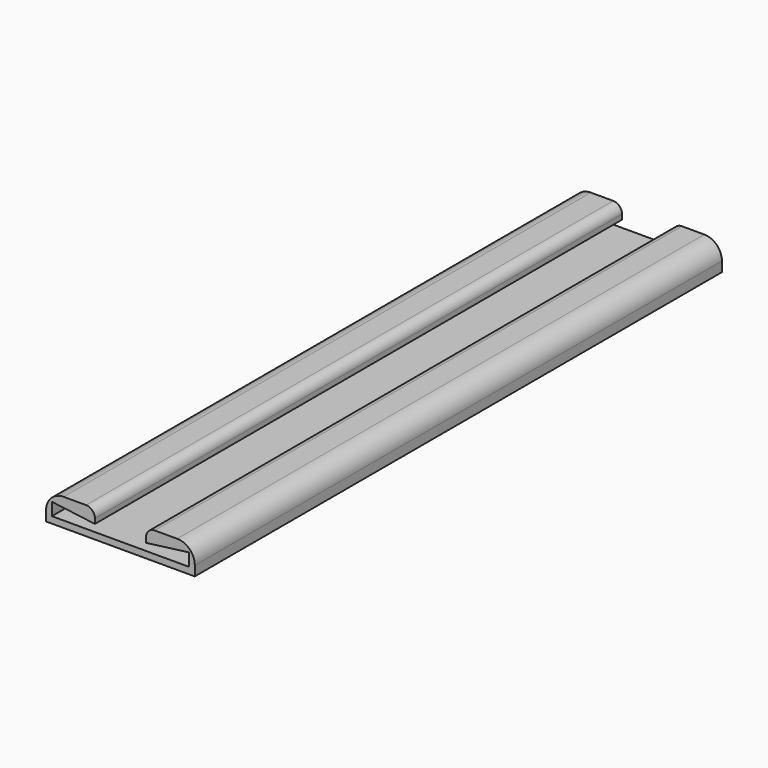
from build123d import *

# Parameters (mm, degrees)
F1_DEPTH = 38.1
F2_R     = 1.016
F3_R     = 1.016
F4_R     = 0.508
F5_R     = 0.508


with BuildPart() as f1:
    # F0 (on Front) → F1 (new body)
    with BuildSketch(Plane.XZ):
        Polygon((-4.299126, 0.79375), (-4.299126, -0.79375), (4.299126, -0.79375), (4.299126, 0.79375), (1.476904, 0.79375), (1.476904, 0), (3.964072, 0.321753), (3.964072, -0.412909), (-3.964072, -0.412909), (-3.964072, 0.321753), (-1.476904, 0), (-1.476904, 0.79375), align=None)
    extrude(amount=F1_DEPTH)

    # F2
    f2_edges = [f1.edges().sort_by_distance(p)[0] for p in [
        (-4.299126, -19.05, 0.79375),
    ]]
    fillet(f2_edges, radius=F2_R)

    # F3
    f3_edges = [f1.edges().sort_by_distance(p)[0] for p in [
        (4.299126, -19.05, 0.79375),
    ]]
    fillet(f3_edges, radius=F3_R)

    # F4
    f4_edges = [f1.edges().sort_by_distance(p)[0] for p in [
        (-1.476904, -19.05, 0.79375),
    ]]
    fillet(f4_edges, radius=F4_R)

    # F5
    f5_edges = [f1.edges().sort_by_distance(p)[0] for p in [
        (1.476904, -19.05, 0.79375),
    ]]
    fillet(f5_edges, radius=F5_R)


solid = f1.part
